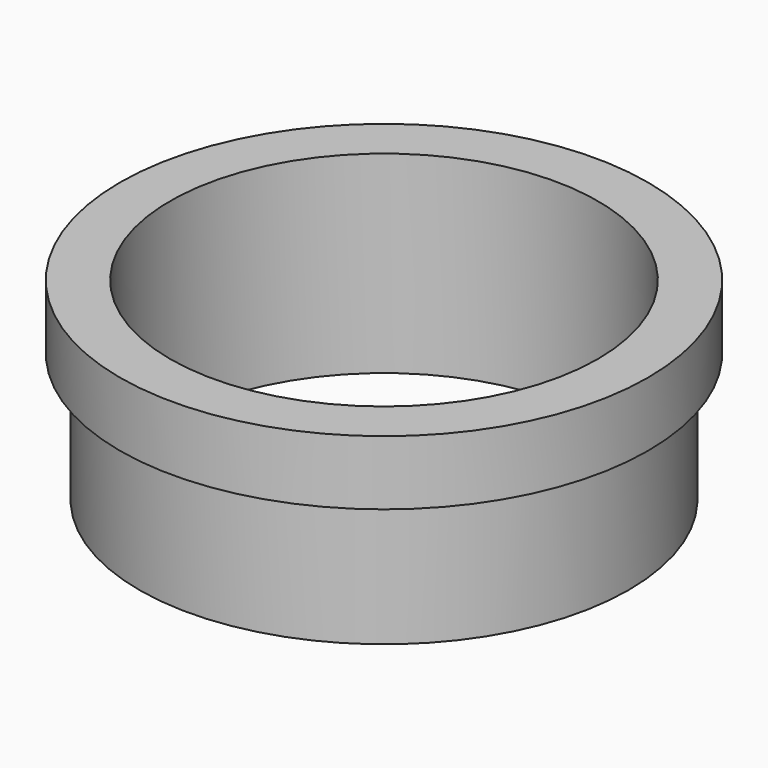
from build123d import *

# Parameters (mm, degrees)
F0_R     = 19
F1_DEPTH = 10
F2_R     = 20.5
F3_DEPTH = 5
F4_R     = 16.6
F5_DEPTH = 15.001


with BuildPart() as f1:
    # F0 (on Top) → F1 (new body)
    with BuildSketch(Plane.XY):
        Circle(F0_R)
    extrude(amount=F1_DEPTH)

    # F2 (on face) → F3 (join)
    with BuildSketch(Plane.XY.offset(10)):
        Circle(F2_R)
    extrude(amount=F3_DEPTH)

    # F4 (on face) → F5 (cut, through all)
    with BuildSketch(Plane(origin=(0, 0, 0), x_dir=(1, 0, 0), z_dir=(0, 0, -1))):
        Circle(F4_R)
    extrude(amount=-F5_DEPTH, mode=Mode.SUBTRACT)


solid = f1.part
